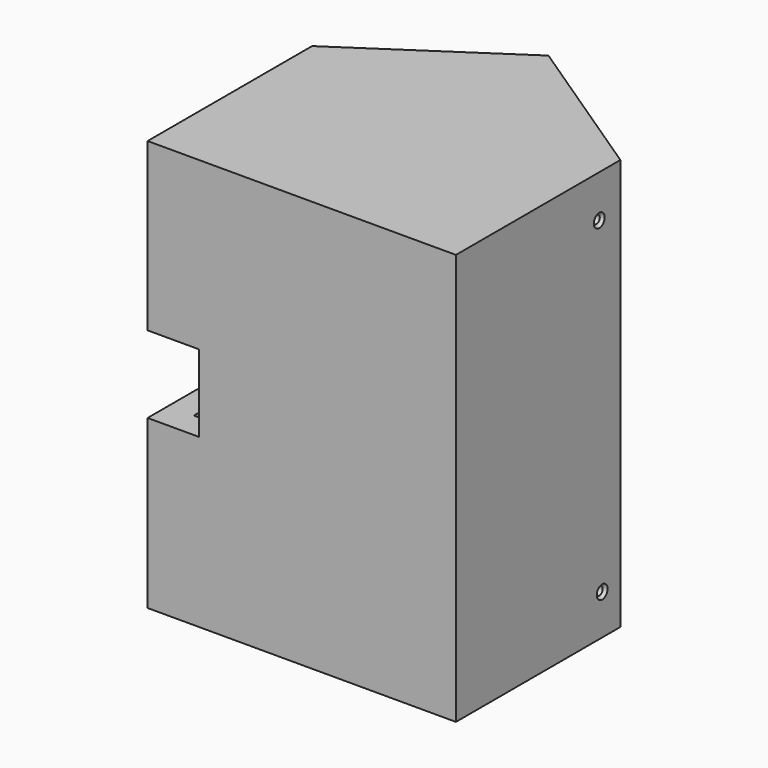
from build123d import *

# Parameters (mm, degrees)
F1_DEPTH       = 101.6
F3_T           = -12.7
F2_W           = 50.8
F2_H           = 38.1
F4_DEPTH       = 25.4
F7_D           = 4
F7_DEPTH       = 14.2
F7_CSINK_D     = 6.72
F7_CSINK_ANGLE = 90
F7_TIP         = 1.2017212381


with BuildPart() as f1:
    # F0 (on Top) → F1 (new body, symmetric)
    with BuildSketch(Plane.XY):
        Polygon((0, 101.6), (0, 0), (152.4, 0), (152.4, 101.6), (76.2, 152.4), align=None)
    extrude(amount=F1_DEPTH, both=True)

    # F3
    f3_openings = [f1.faces().sort_by_distance(p)[0] for p in [
        (76.2, 64.346667, -101.6),
    ]]
    offset(amount=F3_T, openings=f3_openings)

    # F2 (on face) → F4 (cut)
    with BuildSketch(Plane(origin=(0, 0, 0), x_dir=(0, -1, 0), z_dir=(-1, 0, 0))):
        with Locations((-25.4, 0.1572931677)):
            Rectangle(F2_W, F2_H)
        with Locations((-25.4, 0.1572931677)):
            Rectangle(F2_W, F2_H)
    extrude(amount=-F4_DEPTH, mode=Mode.SUBTRACT)

    # F7
    with Locations(Plane.YZ.offset(152.4)):
        with Locations((88.5495916009, 80.6001722813), (90.3433784842, -81.7593187094)):
            CounterSinkHole(F7_D / 2, F7_CSINK_D / 2, depth=F7_DEPTH, counter_sink_angle=F7_CSINK_ANGLE)
            with Locations((0, 0, -(F7_DEPTH + F7_TIP / 2))):  # 118° drill point
                Cone(0, F7_D / 2, F7_TIP, mode=Mode.SUBTRACT)


solid = f1.part
